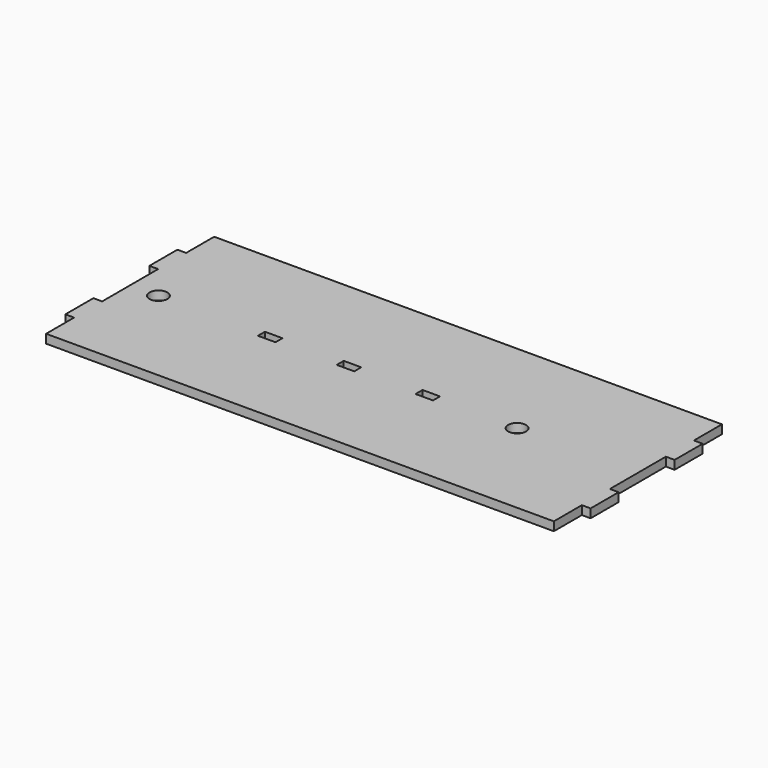
from build123d import *

# Parameters (mm, degrees)
F0_R     = 6.477
F1_DEPTH = 6.35
F0_W     = 6.35
F0_H     = 25.4
F2_DEPTH = 6.35
F3_DEPTH = 6.35
F4_DEPTH = 6.35
F5_DEPTH = 6.35


with BuildPart() as f1:
    # F0 (on Top) → F1 (new body)
    with BuildSketch(Plane.XY):
        Polygon((184.15, 76.2), (-184.15, 76.2), (-184.15, 50.8), (-184.15, 25.4), (-184.15, 0), (-184.15, -25.4), (-184.15, -50.8), (-184.15, -76.2), (184.15, -76.2), (184.15, -50.8), (184.15, -25.4), (184.15, 0), (184.15, 25.4), (184.15, 50.8), align=None)
        with BuildLine():
            ThreePointArc((-157.1244, 0), (-163.6014, -6.477), (-170.0784, 0))
            ThreePointArc((-170.0784, 0), (-163.6014, 6.477), (-157.1244, 0))
        make_face(mode=Mode.SUBTRACT)
        Polygon((-88.9, -3.175), (-88.9, 0), (-88.9, 3.175), (-76.2, 3.175), (-76.2, 0), (-76.2, -3.175), align=None, mode=Mode.SUBTRACT)
        Polygon((-31.75, -3.175), (-31.75, 0), (-31.75, 3.175), (-19.05, 3.175), (-19.05, 0), (-19.05, -3.175), align=None, mode=Mode.SUBTRACT)
        Polygon((25.4, -3.175), (25.4, 0), (25.4, 3.175), (38.1, 3.175), (38.1, 0), (38.1, -3.175), align=None, mode=Mode.SUBTRACT)
        with Locations((96.52, 0)):
            Circle(F0_R, mode=Mode.SUBTRACT)
    extrude(amount=F1_DEPTH)

    # F0 (on Top) → F2 (join)
    with BuildSketch(Plane.XY):
        with Locations((187.325, -38.1)):
            Rectangle(F0_W, F0_H)
    extrude(amount=F2_DEPTH)

    # F0 (on Top) → F3 (join)
    with BuildSketch(Plane.XY):
        with Locations((187.325, 38.1)):
            Rectangle(F0_W, F0_H)
    extrude(amount=F3_DEPTH)

    # F0 (on Top) → F4 (join)
    with BuildSketch(Plane.XY):
        with Locations((-187.325, -38.1)):
            Rectangle(F0_W, F0_H)
    extrude(amount=F4_DEPTH)

    # F0 (on Top) → F5 (join)
    with BuildSketch(Plane.XY):
        with Locations((-187.325, 38.1)):
            Rectangle(F0_W, F0_H)
    extrude(amount=F5_DEPTH)


solid = f1.part
